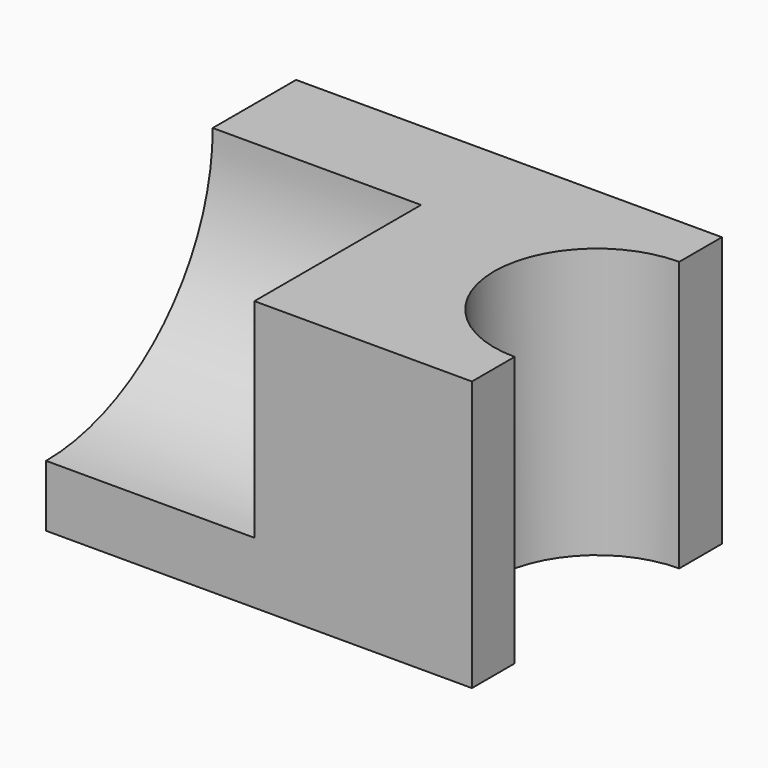
from build123d import *

# Parameters (mm, degrees)
F0_W     = 103.8427650928
F0_H     = 65.8238306642
F1_DEPTH = 76.2
F3_DEPTH = 69.596
F5_DEPTH = 50.8


with BuildPart() as f1:
    # F0 (on Front) → F1 (new body)
    with BuildSketch(Plane.XZ):
        with Locations((-5.3907446563, 1.1348947883)):
            Rectangle(F0_W, F0_H)
    extrude(amount=F1_DEPTH)

    # F2 (on face) → F3 (cut)
    with BuildSketch(Plane.XY.offset(34.0468101203)):
        with BuildLine():
            Line((46.5306378901, -63.1833607248), (46.5306378901, -13.0166392752))
            ThreePointArc((46.5306378901, -13.0166392752), (21.4472771653, -38.1), (46.5306378901, -63.1833607248))
        make_face()
    extrude(amount=-F3_DEPTH, mode=Mode.SUBTRACT)

    # F4 (on face) → F5 (cut)
    with BuildSketch(Plane(origin=(-57.3121272027, 0, 0), x_dir=(0, -1, 0), z_dir=(-1, 0, 0))):
        with BuildLine():
            ThreePointArc((25.4, 34.0468101203), (40.2789755157, -1.8742143639), (76.2, -16.7531898797))
            Line((76.2, -16.7531898797), (76.2, 34.0468101203))
            Line((76.2, 34.0468101203), (25.4, 34.0468101203))
        make_face()
    extrude(amount=-F5_DEPTH, mode=Mode.SUBTRACT)


solid = f1.part
